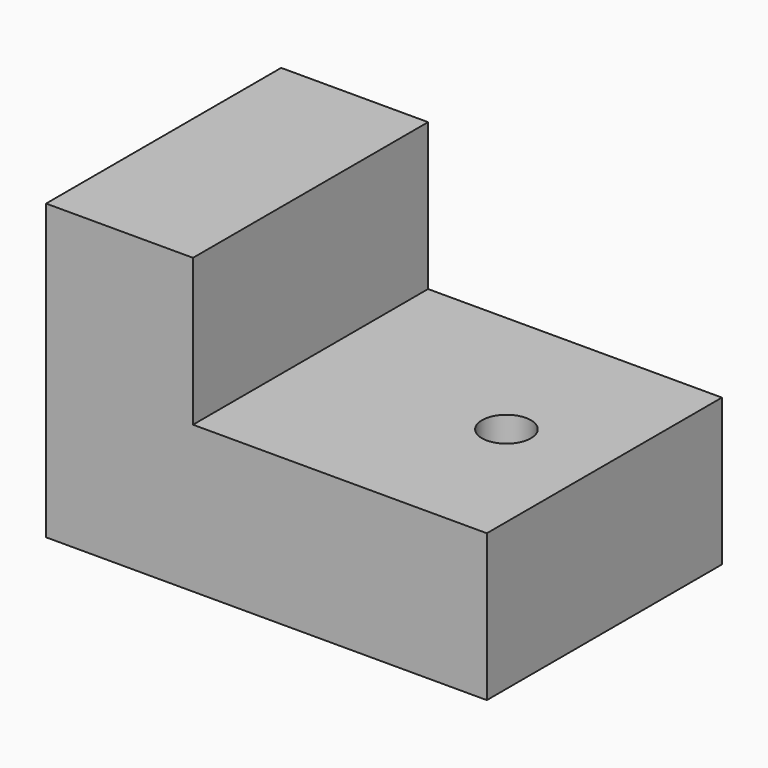
from build123d import *

# Parameters (mm, degrees)
F0_W     = 3
F0_H     = 6
F1_DEPTH = 6
F0_W_2   = 6
F0_R     = 0.5
F2_DEPTH = 3


with BuildPart() as f1:
    # F0 (on Top) → F1 (new body)
    with BuildSketch(Plane.XY):
        with Locations((-5.5, 0)):
            Rectangle(F0_W, F0_H)
    extrude(amount=F1_DEPTH)

    # F0 (on Top) → F2 (join)
    with BuildSketch(Plane.XY):
        with Locations((-1, 0)):
            Rectangle(F0_W_2, F0_H)
        Circle(F0_R, mode=Mode.SUBTRACT)
    extrude(amount=F2_DEPTH)


solid = f1.part
